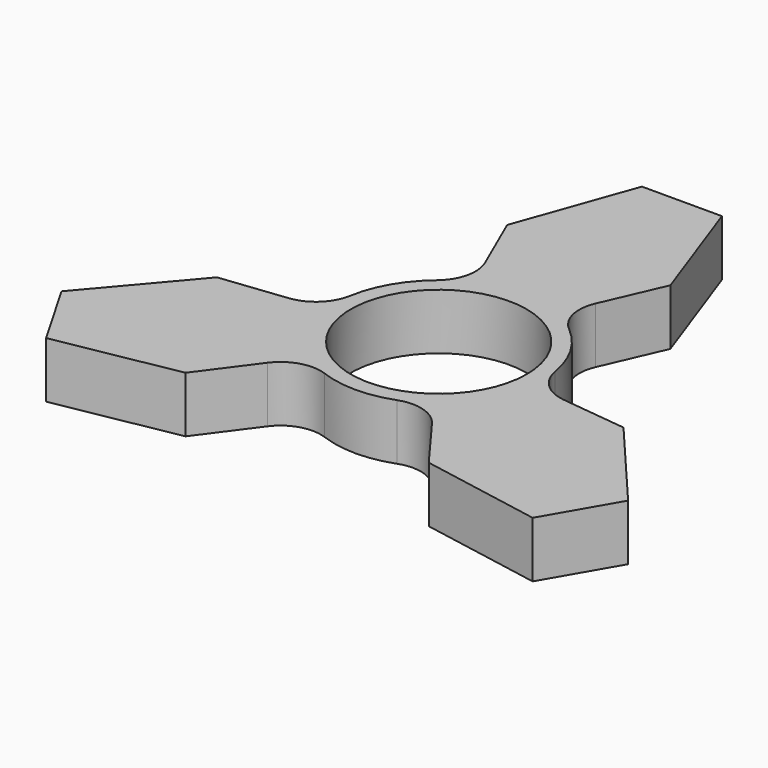
from build123d import *

# Parameters (mm, degrees)
F0_R     = 11
F1_DEPTH = 7


with BuildPart() as f1:
    # F0 (on Top) → F1 (new body)
    with BuildSketch(Plane.XY):
        with BuildLine():
            ThreePointArc((-6.89926, 15.855605), (-6.620569, 12.700123), (-8.294019, 10.010457))
            ThreePointArc((-8.294019, 10.010457), (-11.25833, 6.5), (-12.81632, 2.177603))
            ThreePointArc((-12.81632, 2.177603), (-14.308914, -0.61648), (-17.180987, -1.952868))
            Line((-17.180987, -1.952868), (-25.407018, -2.887876))
            Line((-25.407018, -2.887876), (-35.408965, -14.669873))
            Line((-35.408965, -14.669873), (-30.408965, -23.330127))
            Line((-30.408965, -23.330127), (-15.204483, -20.559185))
            Line((-15.204483, -20.559185), (-10.281727, -13.902737))
            ThreePointArc((-10.281727, -13.902737), (-7.688344, -12.083642), (-4.5223, -12.18806))
            ThreePointArc((-4.5223, -12.18806), (0, -13), (4.5223, -12.18806))
            ThreePointArc((4.5223, -12.18806), (7.688344, -12.083642), (10.281727, -13.902737))
            Line((10.281727, -13.902737), (15.204483, -20.559185))
            Line((15.204483, -20.559185), (30.408965, -23.330127))
            Line((30.408965, -23.330127), (35.408965, -14.669873))
            Line((35.408965, -14.669873), (25.407018, -2.887876))
            Line((25.407018, -2.887876), (17.180987, -1.952868))
            ThreePointArc((17.180987, -1.952868), (14.308914, -0.61648), (12.81632, 2.177603))
            ThreePointArc((12.81632, 2.177603), (11.25833, 6.5), (8.294019, 10.010457))
            ThreePointArc((8.294019, 10.010457), (6.620569, 12.700123), (6.89926, 15.855605))
            Line((6.89926, 15.855605), (10.202535, 23.447061))
            Line((10.202535, 23.447061), (5, 38))
            Line((5, 38), (-5, 38))
            Line((-5, 38), (-10.202535, 23.447061))
            Line((-10.202535, 23.447061), (-6.89926, 15.855605))
        make_face()
        Circle(F0_R, mode=Mode.SUBTRACT)
    extrude(amount=F1_DEPTH)


solid = f1.part
